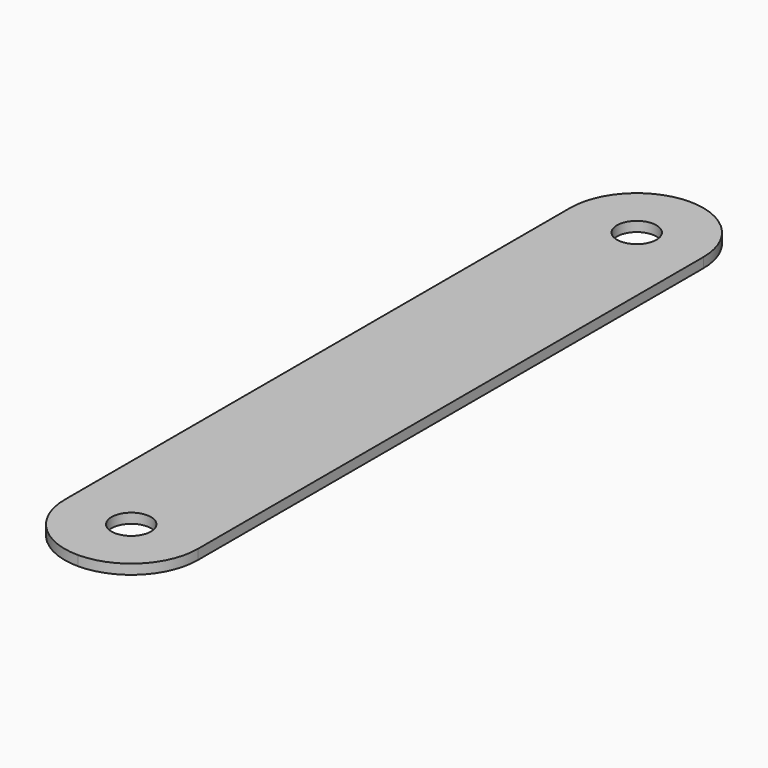
from build123d import *

# Parameters (mm, degrees)
F0_R     = 3.99
F1_DEPTH = 2
F2_DEPTH = 25


with BuildPart() as f1:
    # F0 (on Top) → F1 (new body)
    with BuildSketch(Plane.XY):
        with BuildLine():
            Line((0, -77.485), (13.49, -77.485))
            Line((13.49, -77.485), (13.49, -63.995))
            ThreePointArc((13.49, -63.995), (9.5388704782, -73.5338704782), (0, -77.485))
        make_face()
        with BuildLine():
            Line((-13.49, -77.485), (0, -77.485))
            ThreePointArc((0, -77.485), (-9.5388704782, -73.5338704782), (-13.49, -63.995))
            Line((-13.49, -63.995), (-13.49, -77.485))
        make_face()
        with BuildLine():
            ThreePointArc((-13.49, -63.995), (-9.5388704782, -73.5338704782), (0, -77.485))
            ThreePointArc((0, -77.485), (9.5388704782, -73.5338704782), (13.49, -63.995))
            ThreePointArc((13.49, -63.995), (0, -50.505), (-13.49, -63.995))
        make_face()
        with Locations((0, -63.995)):
            Circle(F0_R, mode=Mode.SUBTRACT)
        with BuildLine():
            ThreePointArc((-13.49, -63.995), (0, -50.505), (13.49, -63.995))
            Line((13.49, -63.995), (13.49, 63.995))
            ThreePointArc((13.49, 63.995), (7.75e-08, 50.505), (-13.49, 63.994999845))
            Line((-13.49, 63.994999845), (-13.49, -63.995))
        make_face()
        with BuildLine():
            ThreePointArc((0, 77.485), (9.5388704782, 73.5338704782), (13.49, 63.995))
            Line((13.49, 63.995), (13.49, 77.485))
            Line((13.49, 77.485), (0, 77.485))
        make_face()
        with BuildLine():
            ThreePointArc((-13.49, 63.994999845), (7.75e-08, 50.505), (13.49, 63.995))
            ThreePointArc((13.49, 63.995), (9.5388704782, 73.5338704782), (0, 77.485))
            ThreePointArc((0, 77.485), (-9.538870533, 73.5338704234), (-13.49, 63.994999845))
        make_face()
        with Locations((0, 63.995)):
            Circle(F0_R, mode=Mode.SUBTRACT)
        with BuildLine():
            Line((-13.49, 77.485), (-13.49, 63.994999845))
            ThreePointArc((-13.49, 63.994999845), (-9.538870533, 73.5338704234), (0, 77.485))
            Line((0, 77.485), (-13.49, 77.485))
        make_face()
    extrude(amount=F1_DEPTH)

    # F0 (on Top) → F2 (cut)
    with BuildSketch(Plane.XY):
        with BuildLine():
            ThreePointArc((0, 77.485), (9.5388704782, 73.5338704782), (13.49, 63.995))
            Line((13.49, 63.995), (13.49, 77.485))
            Line((13.49, 77.485), (0, 77.485))
        make_face()
        with BuildLine():
            Line((-13.49, 77.485), (-13.49, 63.994999845))
            ThreePointArc((-13.49, 63.994999845), (-9.538870533, 73.5338704234), (0, 77.485))
            Line((0, 77.485), (-13.49, 77.485))
        make_face()
        with BuildLine():
            Line((0, -77.485), (13.49, -77.485))
            Line((13.49, -77.485), (13.49, -63.995))
            ThreePointArc((13.49, -63.995), (9.5388704782, -73.5338704782), (0, -77.485))
        make_face()
        with BuildLine():
            Line((-13.49, -77.485), (0, -77.485))
            ThreePointArc((0, -77.485), (-9.5388704782, -73.5338704782), (-13.49, -63.995))
            Line((-13.49, -63.995), (-13.49, -77.485))
        make_face()
    extrude(amount=F2_DEPTH, mode=Mode.SUBTRACT)


solid = f1.part
